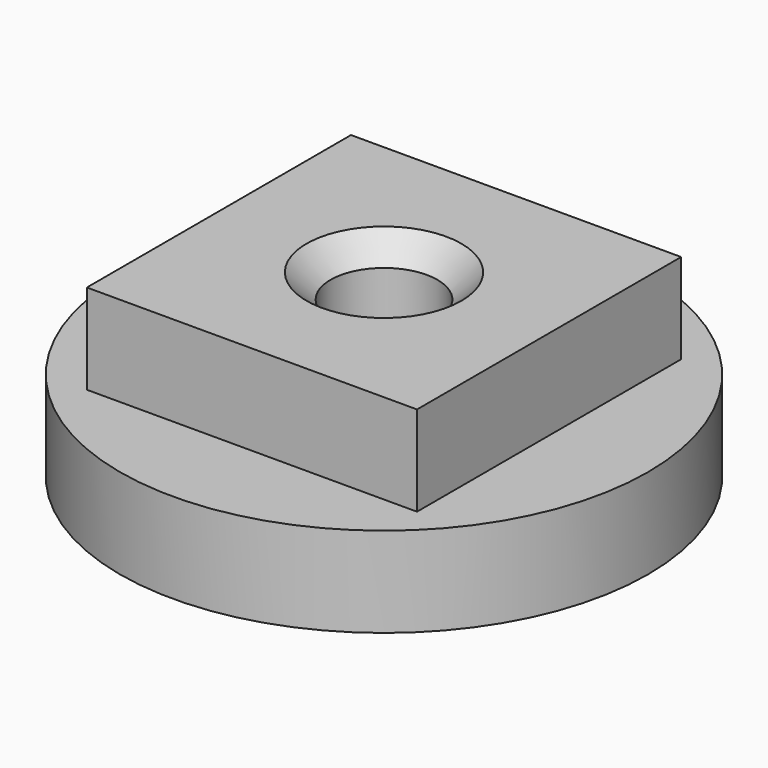
from build123d import *

# Parameters (mm, degrees)
F0_R     = 5.588
F1_DEPTH = 1.905
F2_W     = 6.985
F2_H     = 6.985
F3_DEPTH = 1.905
F4_R     = 1.1303
F5_DEPTH = 3.81
F6_SIZE  = 0.508


with BuildPart() as f1:
    # F0 (on Top) → F1 (new body)
    with BuildSketch(Plane.XY):
        Circle(F0_R)
    extrude(amount=F1_DEPTH)

    # F2 (on face) → F3 (join)
    with BuildSketch(Plane.XY.offset(1.905)):
        Rectangle(F2_W, F2_H)
    extrude(amount=F3_DEPTH)

    # F4 (on face) → F5 (cut, through all)
    with BuildSketch(Plane.XY.offset(3.81)):
        Circle(F4_R)
    extrude(amount=-F5_DEPTH, mode=Mode.SUBTRACT)

    # F6
    f6_edges = [f1.edges().sort_by_distance(p)[0] for p in [
        (1.1303, 0, 1.905),
        (-1.1303, 0, 3.81),
        (-1.1303, 0, 0),
    ]]
    chamfer(f6_edges, length=F6_SIZE)


solid = f1.part
